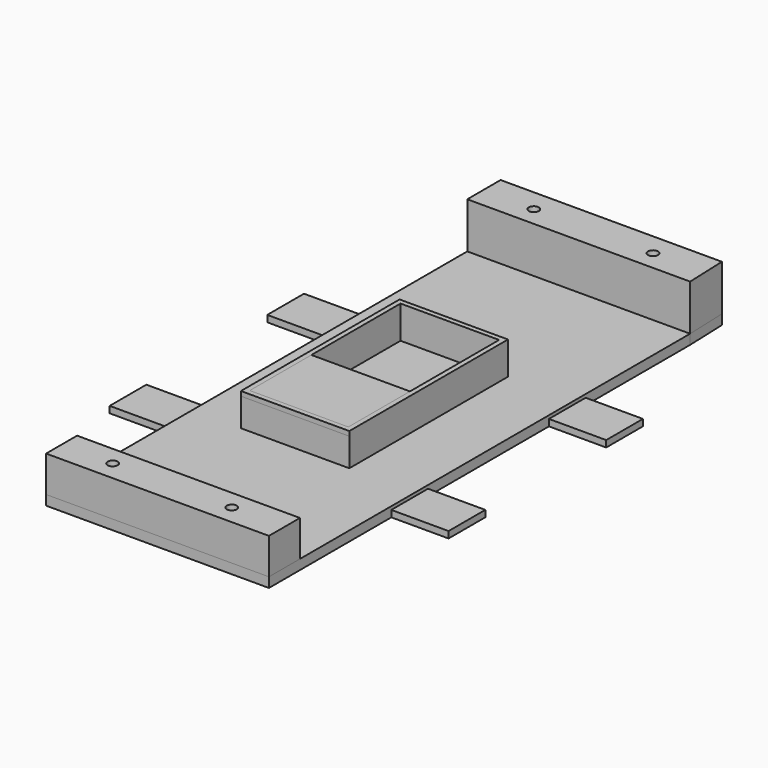
from build123d import *

# Parameters (mm, degrees)
F0_R      = 1.530006
F1_DEPTH  = 14
F2_DEPTH  = 11
F3_R      = 1.530006
F4_DEPTH  = 3
F5_W      = 17.943209
F5_H      = 14
F6_DEPTH  = 2
F7_W      = 33.07918
F7_H      = 60.496343
F7_W_2    = 30.07918
F7_H_2    = 57.496343
F8_DEPTH  = 10
F9_W      = 33.07918
F9_H      = 1.394839
F10_DEPTH = 25


with BuildPart() as f1:
    # F0 (on Top) → F1 (new body)
    with BuildSketch(Plane.XY):
        Polygon((-96.766765, 42.597945), (-96.766765, 29.876582), (-28.776475, 29.876582), (-29.24884, 42.597945), align=None)
        with Locations((-81.191647, 35.791169)):
            Circle(F0_R, mode=Mode.SUBTRACT)
        with Locations((-44.823959, 35.791169)):
            Circle(F0_R, mode=Mode.SUBTRACT)
    extrude(amount=F1_DEPTH)


with BuildPart() as f2:
    # F0 (on Top) → F2 (new body)
    with BuildSketch(Plane.XY):
        Polygon((-33.776475, -118.915985), (-91.766765, -118.915985), (-96.766765, -118.915985), (-96.766765, -130.745161), (-28.776475, -130.745161), (-28.776475, -118.915985), align=None)
        with Locations((-81.191647, -124.830573)):
            Circle(F0_R, mode=Mode.SUBTRACT)
        with Locations((-44.823959, -124.830573)):
            Circle(F0_R, mode=Mode.SUBTRACT)
    extrude(amount=F2_DEPTH)


with BuildPart() as f4:
    # F3 (on face) → F4 (new body)
    with BuildSketch(Plane.XY):
        Polygon((-28.776475, -118.915985), (-28.776475, 29.876582), (-29.24884, 42.597945), (-96.766765, 42.597945), (-96.766765, 29.876582), (-96.766765, -118.915985), (-96.766765, -130.745161), (-28.776475, -130.745161), align=None)
        with Locations((-81.191647, -124.830573)):
            Circle(F3_R, mode=Mode.SUBTRACT)
        with Locations((-44.823959, -124.830573)):
            Circle(F3_R, mode=Mode.SUBTRACT)
        with Locations((-81.191647, 35.791169)):
            Circle(F3_R, mode=Mode.SUBTRACT)
        with Locations((-44.823959, 35.791169)):
            Circle(F3_R, mode=Mode.SUBTRACT)
    extrude(amount=-F4_DEPTH)

    # F5 (on face) → F6 (join)
    with BuildSketch(Plane(origin=(0, 0, -3), x_dir=(1, 0, 0), z_dir=(0, 0, -1))):
        with Locations((-105.738369, 77.075038)):
            Rectangle(F5_W, F5_H)
        with Locations((-105.738369, 16.964196)):
            Rectangle(F5_W, F5_H)
        with Locations((-20.277235, 16.964196)):
            Rectangle(F5_W, F5_H)
        with Locations((-20.277235, 77.075038)):
            Rectangle(F5_W, F5_H)
    extrude(amount=-F6_DEPTH)

    # F7 (on face) → F8 (join)
    with BuildSketch(Plane.XY):
        with Locations((-65.34178, -44.803255)):
            Rectangle(F7_W, F7_H)
        with Locations((-65.34178, -44.803255)):
            Rectangle(F7_W_2, F7_H_2, mode=Mode.SUBTRACT)
    extrude(amount=F8_DEPTH)

    # F9 (on face) → F10 (join)
    with BuildSketch(Plane.XZ.offset(75.051427)):
        with Locations((-65.34178, 9.30258)):
            Rectangle(F9_W, F9_H)
    extrude(amount=-F10_DEPTH)


solid = Compound([f1.part, f2.part, f4.part])
